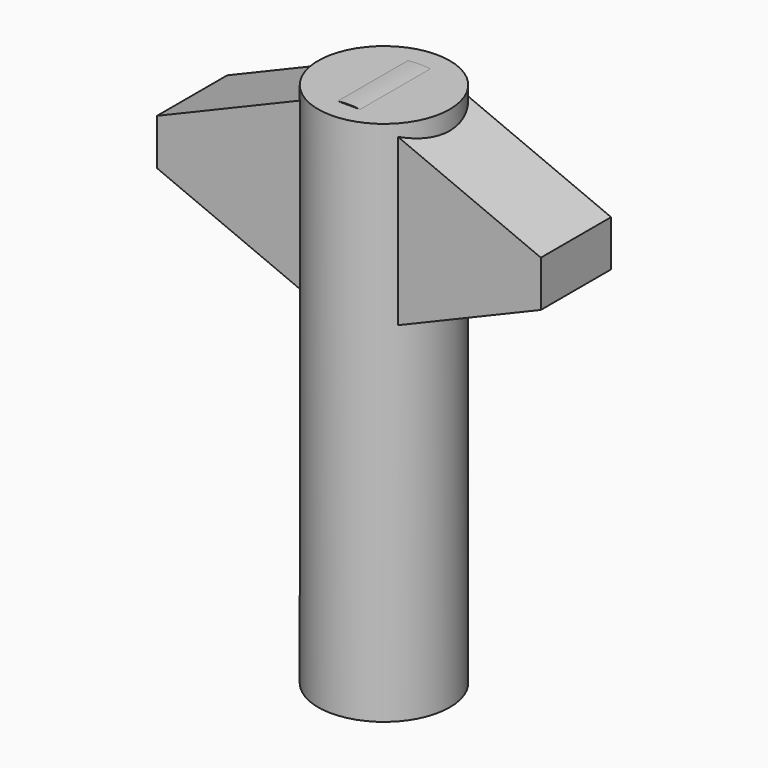
from build123d import *

# Parameters (mm, degrees)
F0_R     = 4.7625
F1_DEPTH = 38.1
F3_DEPTH = 3.175


with BuildPart() as f1:
    # F0 (on Top) → F1 (new body)
    with BuildSketch(Plane.XY):
        Circle(F0_R)
    extrude(amount=F1_DEPTH)

    # F2 (on Front) → F3 (join, symmetric)
    with BuildSketch(Plane.XZ):
        with BuildLine():
            Line((2.669991, 24.872054), (13.890625, 29.575619))
            Line((13.890625, 29.575619), (13.890625, 32.907334))
            Line((13.890625, 32.907334), (2.669991, 37.610899))
            ThreePointArc((2.669991, 37.610899), (0, 38.147879), (-2.669991, 37.610899))
            Line((-2.669991, 37.610899), (-13.890625, 32.907334))
            Line((-13.890625, 32.907334), (-13.890625, 29.575619))
            Line((-13.890625, 29.575619), (-2.669991, 24.872054))
            ThreePointArc((-2.669991, 24.872054), (0, 24.335074), (2.669991, 24.872054))
        make_face()
    extrude(amount=F3_DEPTH, both=True)


solid = f1.part
